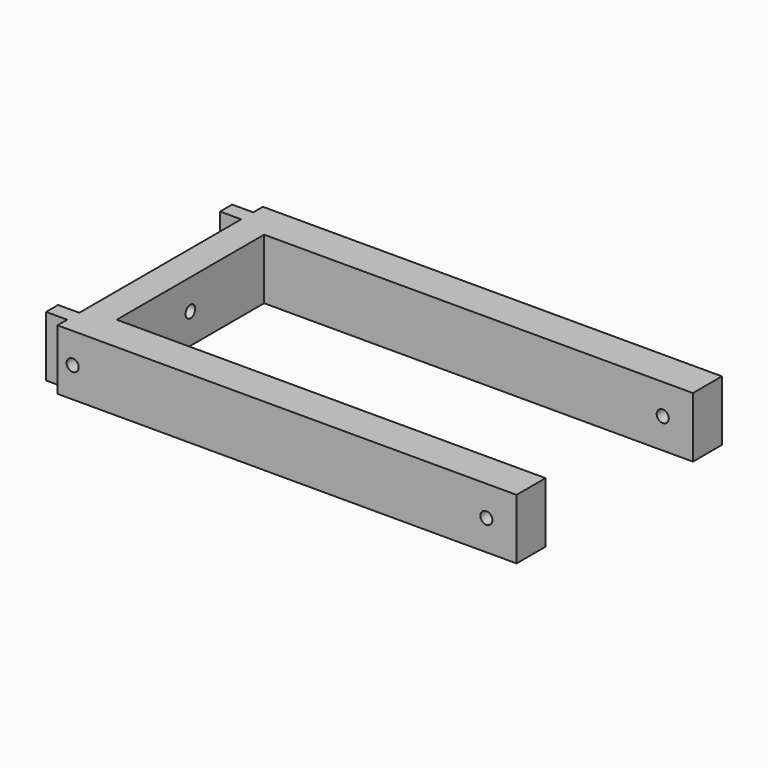
from build123d import *

# Parameters (mm, degrees)
PAD_DEPTH       = 20
SKETCH004_R     = 2
POCKET002_DEPTH = 152.001
SKETCH005_R     = 2
POCKET003_DEPTH = 85.001


with BuildPart() as part:
    # Sketch → Pad (new body)
    with BuildSketch(Plane.XY):
        Polygon((-10, -42.5), (142, -42.5), (142, -30.5), (0, -30.5), (0, 30.5), (142, 30.5), (142, 42.5), (-10, 42.5), (-10, 38.5), (-17, 38.5), (-17, 33.5), (-10, 33.5), (-10, -33.5), (-17, -33.5), (-17, -38.5), (-10, -38.5), align=None)
    extrude(amount=PAD_DEPTH)

    # Sketch004 → Pocket002 (cut, through all)
    with BuildSketch(Plane(origin=(-10, 0, 0), x_dir=(0, -1, 0), z_dir=(-1, 0, 0))):
        with Locations((0, 10)):
            Circle(SKETCH004_R)
    extrude(amount=-POCKET002_DEPTH, mode=Mode.SUBTRACT)

    # Sketch005 → Pocket003 (cut, through all)
    with BuildSketch(Plane.XZ.offset(42.5)):
        with Locations((-5, 10)):
            Circle(SKETCH005_R)
        with Locations((132, 10)):
            Circle(SKETCH005_R)
    extrude(amount=-POCKET003_DEPTH, mode=Mode.SUBTRACT)


solid = part.part
